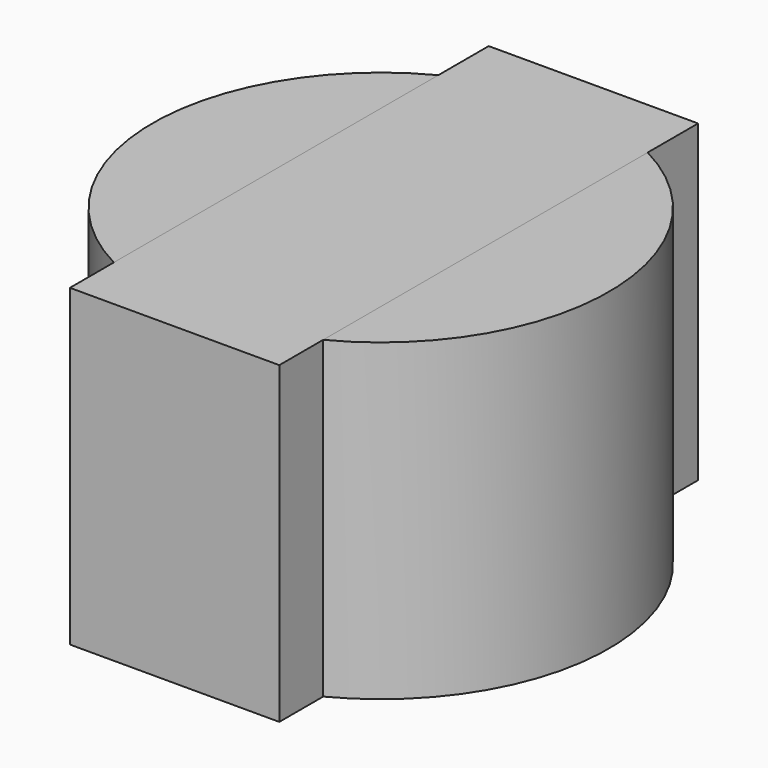
from build123d import *

# Parameters (mm, degrees)
SKETCH001_W      = 2
SKETCH001_H      = 5
EXTRUDE002_DEPTH = 3
EXTRUDE001_DEPTH = 3
SKETCH_R         = 2.18
EXTRUDE_DEPTH    = 3


with BuildPart() as extrude002:
    # Sketch001 → Extrude002 (new body)
    with BuildSketch(Plane.XY):
        with Locations((-29.000001, 17.038815)):
            Rectangle(SKETCH001_W, SKETCH001_H)
    extrude(amount=EXTRUDE002_DEPTH)


with BuildPart() as extrude001:
    # Sketch001 → Extrude001 (new body)
    with BuildSketch(Plane.XY):
        with Locations((-29.000001, 17.038815)):
            Rectangle(SKETCH001_W, SKETCH001_H)
    extrude(amount=EXTRUDE001_DEPTH)


with BuildPart() as cut:
    # Sketch → Extrude (new body)
    with BuildSketch(Plane.XY):
        with Locations((-29, 17)):
            Circle(SKETCH_R)
    extrude(amount=EXTRUDE_DEPTH)

    # Cut: cut Extrude001
    add(extrude001.part, mode=Mode.SUBTRACT)


solid = Compound([extrude002.part, cut.part])
